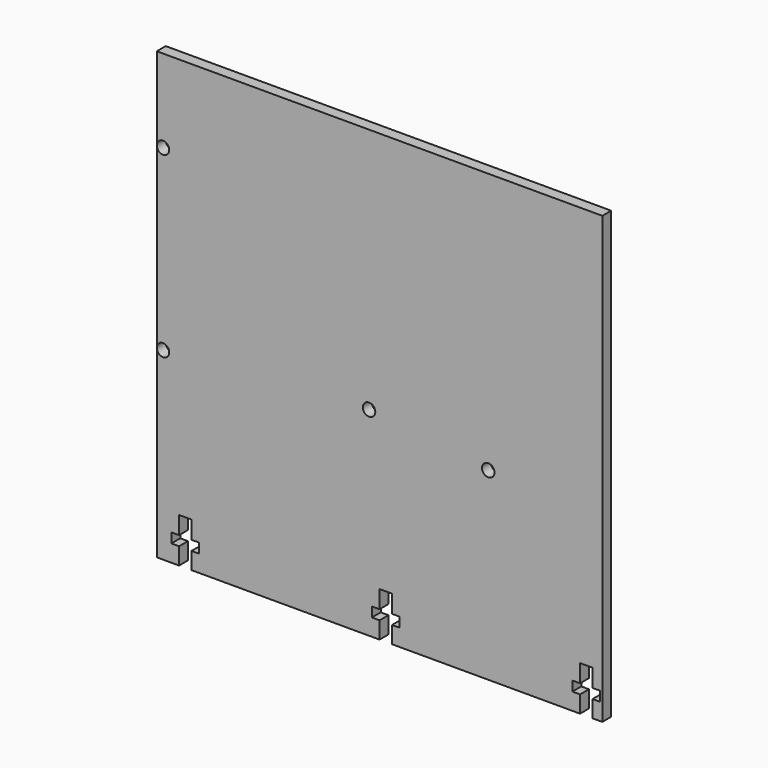
from build123d import *

# Parameters (mm, degrees)
F0_R     = 1.778
F1_DEPTH = 1.5875
F3_D     = 3.556


with BuildPart() as f1:
    # F0 (on Front) → F1 (new body, symmetric)
    with BuildSketch(Plane.XZ):
        Polygon((60.706, -63.5), (63.5, -63.5), (63.5, 63.5), (-63.5, 63.5), (-63.5, -63.5), (-57.15, -63.5), (-57.15, -58.658125), (-59.34075, -58.658125), (-59.34075, -55.88), (-57.15, -55.88), (-57.15, -50.8), (-53.594, -50.8), (-53.594, -55.88), (-51.40325, -55.88), (-51.40325, -58.658125), (-53.594, -58.658125), (-53.594, -63.5), (0, -63.5), (0, -58.658125), (-2.19075, -58.658125), (-2.19075, -55.88), (0, -55.88), (0, -50.8), (3.556, -50.8), (3.556, -55.88), (5.74675, -55.88), (5.74675, -58.658125), (3.556, -58.658125), (3.556, -63.5), (57.15, -63.5), (57.15, -58.658125), (54.95925, -58.658125), (54.95925, -55.88), (57.15, -55.88), (57.15, -50.8), (60.706, -50.8), (60.706, -55.88), (62.89675, -55.88), (62.89675, -58.658125), (60.706, -58.658125), align=None)
        with Locations((-2.993556, -6.74959)):
            Circle(F0_R, mode=Mode.SUBTRACT)
        with Locations((30.988, -10.922)):
            Circle(F0_R, mode=Mode.SUBTRACT)
    extrude(amount=F1_DEPTH, both=True)

    # F3 (through all)
    with Locations(Plane.XZ.offset(1.5875)):
        with Locations((-61.721873, 39.878127), (-61.721873, -10.921873)):
            Hole(F3_D / 2)


solid = f1.part
